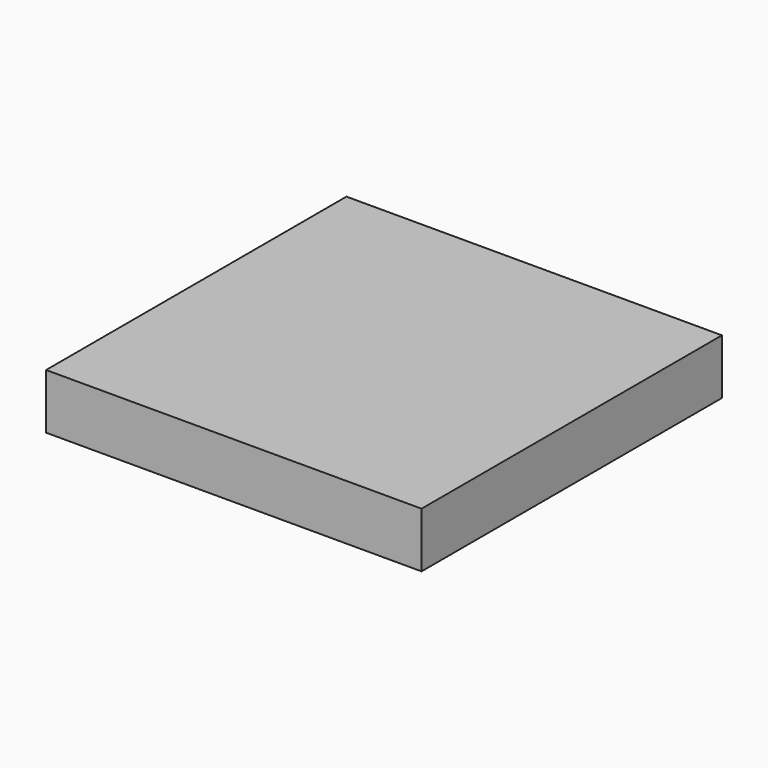
from build123d import *

# Parameters (mm, degrees)
SKETCH_W  = 5.1
SKETCH_H  = 5.1
PAD_DEPTH = 0.75


with BuildPart() as part:
    # Sketch → Pad (new body)
    with BuildSketch(Plane.XY):
        Rectangle(SKETCH_W, SKETCH_H)
    extrude(amount=PAD_DEPTH)


solid = part.part
